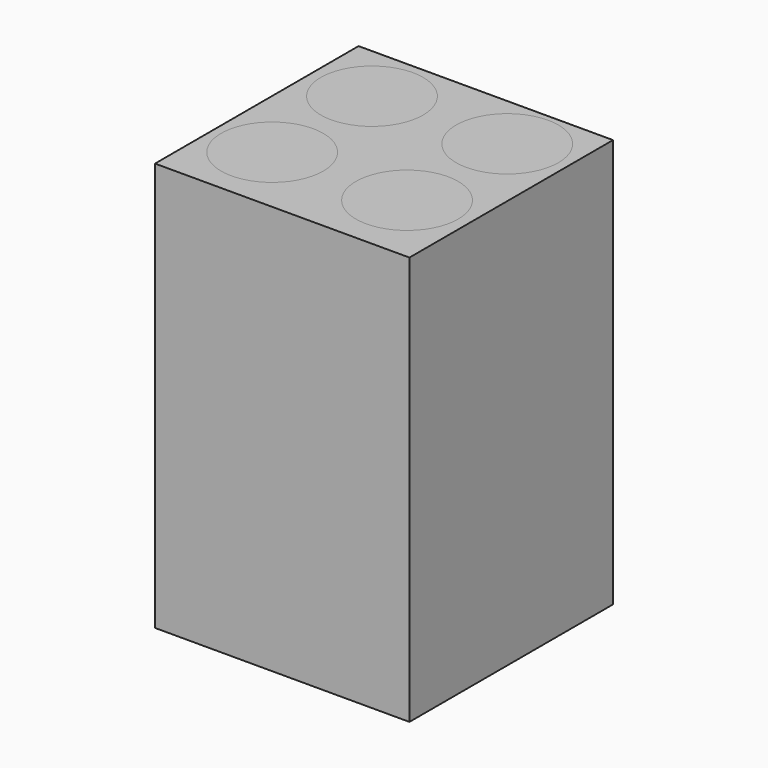
from build123d import *

# Parameters (mm, degrees)
F0_W     = 15.56
F0_H     = 15.56
F2_DEPTH = 25
F1_R     = 3.125


with BuildPart() as f2:
    # F0 (on Top) → F2 (new body)
    with BuildSketch(Plane.XY):
        with Locations((0.0785020094, -0.7916040632)):
            Rectangle(F0_W, F0_H)
    extrude(amount=F2_DEPTH)


with BuildPart() as f2b:
    # F1 (on Top) → F2, piece 2 (new body)
    with BuildSketch(Plane.XY):
        with Locations((-3.9618849667, 3.3398911009)):
            Circle(F1_R)
    extrude(amount=F2_DEPTH)


with BuildPart() as f2c:
    # F1 (on Top) → F2, piece 3 (new body)
    with BuildSketch(Plane.XY):
        with Locations((4.1588830674, 3.5291202986)):
            Circle(F1_R)
    extrude(amount=F2_DEPTH)


with BuildPart() as f2d:
    # F1 (on Top) → F2, piece 4 (new body)
    with BuildSketch(Plane.XY):
        with Locations((-4.0655138512, -4.1589550173)):
            Circle(F1_R)
    extrude(amount=F2_DEPTH)


with BuildPart() as f2e:
    # F1 (on Top) → F2, piece 5 (new body)
    with BuildSketch(Plane.XY):
        with Locations((4.0664936555, -4.0146590518)):
            Circle(F1_R)
    extrude(amount=F2_DEPTH)


solid = Compound([f2.part, f2b.part, f2c.part, f2d.part, f2e.part])
